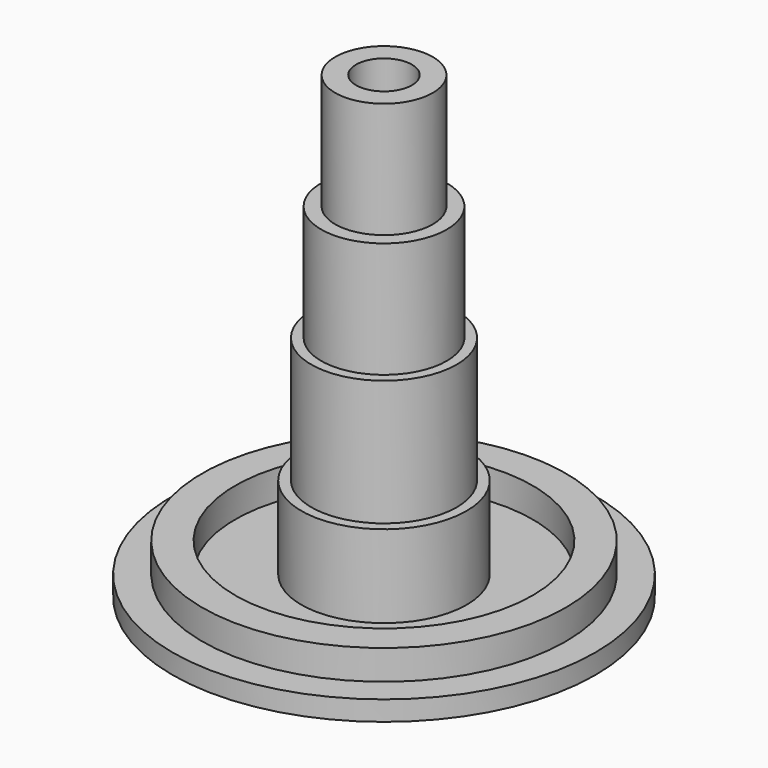
from build123d import *

# Parameters (mm, degrees)
F0_R      = 64
F0_R_2    = 55
F1_DEPTH  = 6
F2_R      = 55
F2_R_2    = 45
F3_DEPTH  = 9
F4_R      = 25
F5_DEPTH  = 25
F6_R      = 22
F7_DEPTH  = 38
F8_R      = 19
F9_DEPTH  = 35
F10_R     = 14.75
F11_DEPTH = 35
F12_R     = 8.45
F13_DEPTH = 200


with BuildPart() as f1:
    # F0 (on Top) → F1 (new body)
    with BuildSketch(Plane.XY):
        Circle(F0_R)
        Circle(F0_R_2, mode=Mode.SUBTRACT)
        Circle(F0_R_2)
    extrude(amount=F1_DEPTH)

    # F2 (on face) → F3 (join)
    with BuildSketch(Plane.XY.offset(6)):
        Circle(F2_R)
        Circle(F2_R_2, mode=Mode.SUBTRACT)
    extrude(amount=F3_DEPTH)

    # F4 (on face) → F5 (join)
    with BuildSketch(Plane.XY.offset(6)):
        Circle(F4_R)
    extrude(amount=F5_DEPTH)

    # F6 (on face) → F7 (join)
    with BuildSketch(Plane.XY.offset(31)):
        Circle(F6_R)
    extrude(amount=F7_DEPTH)

    # F8 (on face) → F9 (join)
    with BuildSketch(Plane.XY.offset(69)):
        Circle(F8_R)
    extrude(amount=F9_DEPTH)

    # F10 (on face) → F11 (join)
    with BuildSketch(Plane.XY.offset(104)):
        Circle(F10_R)
    extrude(amount=F11_DEPTH)

    # F12 (on face) → F13 (cut)
    with BuildSketch(Plane.XY.offset(139)):
        Circle(F12_R)
    extrude(amount=-F13_DEPTH, mode=Mode.SUBTRACT)


solid = f1.part
